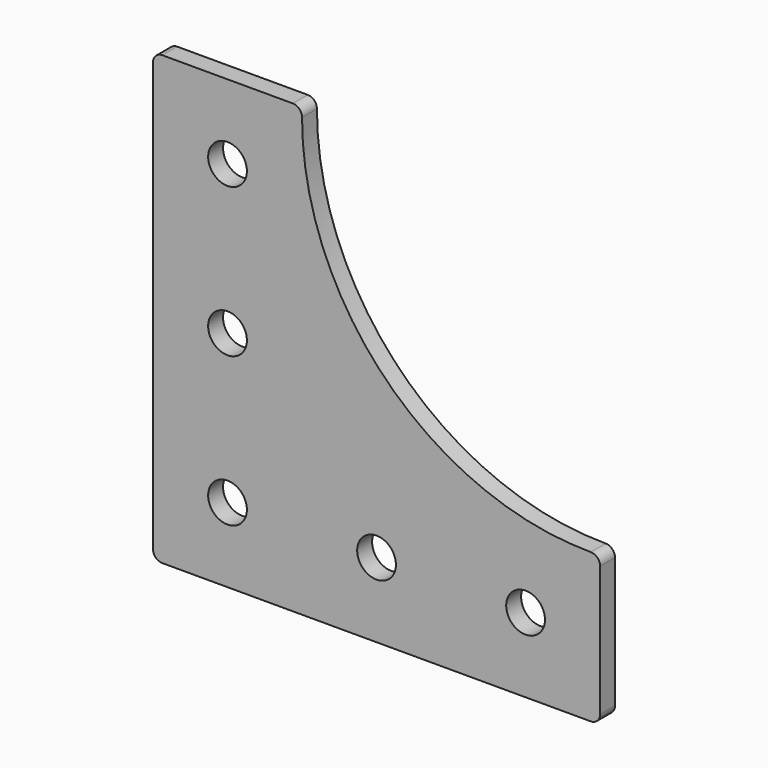
from build123d import *

# Parameters (mm, degrees)
F0_R     = 3.302
F1_DEPTH = 3.175


with BuildPart() as f1:
    # F0 (on Front) → F1 (new body)
    with BuildSketch(Plane.XZ):
        with BuildLine():
            Line((-1.5875, 50.8), (-23.8125, 50.8))
            ThreePointArc((-23.8125, 50.8), (-24.935032, 50.335032), (-25.4, 49.2125))
            Line((-25.4, 49.2125), (-25.4, -23.8125))
            ThreePointArc((-25.4, -23.8125), (-24.935032, -24.935032), (-23.8125, -25.4))
            Line((-23.8125, -25.4), (0, -25.4))
            Line((0, -25.4), (49.2125, -25.4))
            ThreePointArc((49.2125, -25.4), (50.335032, -24.935032), (50.8, -23.8125))
            Line((50.8, -23.8125), (50.8, -1.5875))
            ThreePointArc((50.8, -1.5875), (50.335032, -0.464968), (49.2125, 0))
            ThreePointArc((49.2125, 0), (14.414008, 14.414008), (0, 49.2125))
            ThreePointArc((0, 49.2125), (-0.464968, 50.335032), (-1.5875, 50.8))
        make_face()
        with Locations((-12.7, -12.7)):
            Circle(F0_R, mode=Mode.SUBTRACT)
        with Locations((12.7, -12.7)):
            Circle(F0_R, mode=Mode.SUBTRACT)
        with Locations((38.1, -12.7)):
            Circle(F0_R, mode=Mode.SUBTRACT)
        with Locations((-12.7, 12.7)):
            Circle(F0_R, mode=Mode.SUBTRACT)
        with Locations((-12.7, 38.1)):
            Circle(F0_R, mode=Mode.SUBTRACT)
    extrude(amount=F1_DEPTH)


solid = f1.part
